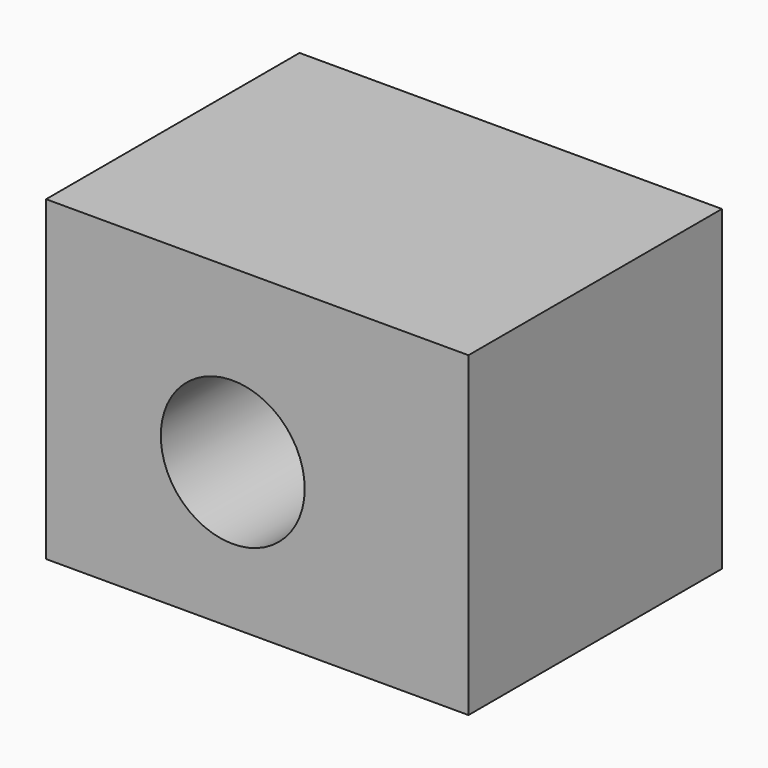
from build123d import *

# Parameters (mm, degrees)
F0_W     = 101.6
F0_H     = 76.2
F1_DEPTH = 76.2
F2_R     = 17.309068
F3_DEPTH = 76.2


with BuildPart() as f1:
    # F0 (on Front) → F1 (new body)
    with BuildSketch(Plane.XZ):
        with Locations((50.8, 38.1)):
            Rectangle(F0_W, F0_H)
    extrude(amount=F1_DEPTH)

    # F2 (on Front) → F3 (cut, through all)
    with BuildSketch(Plane.XZ):
        with Locations((44.897694, 35.112303)):
            Circle(F2_R)
    extrude(amount=F3_DEPTH, mode=Mode.SUBTRACT)


solid = f1.part
